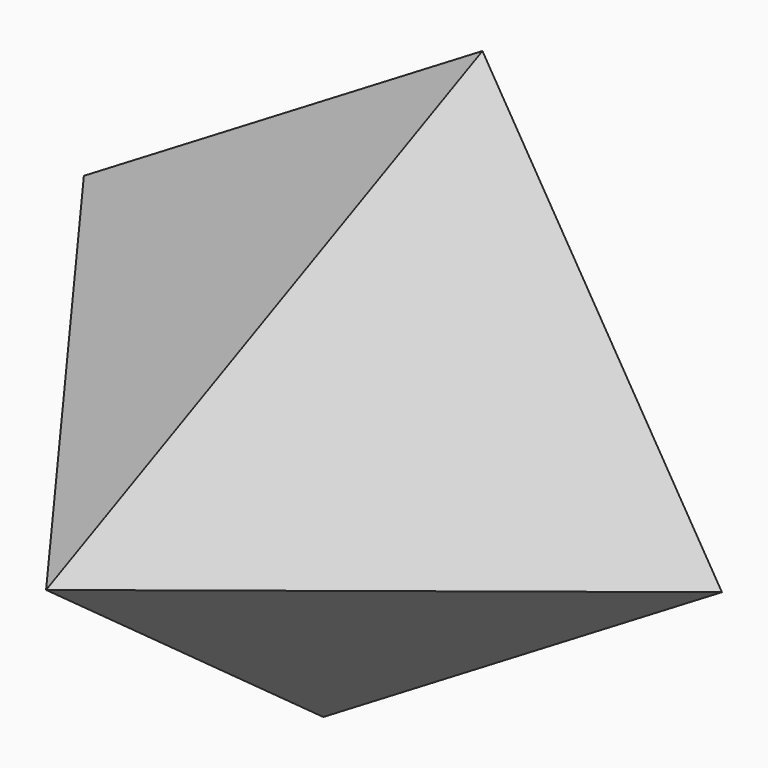
from build123d import *


with BuildPart() as f3:
    # F0 (on Front) → F3 section 0
    with BuildSketch(Plane.XZ, mode=Mode.PRIVATE) as f3_s0:
        Polygon((52.930329, -13.196721), (13.196721, 52.930329), (-52.930329, 13.196721), (-13.196721, -52.930329), align=None)
    loft([f3_s0.sketch, Vertex(0, -74, 0)])


solid = f3.part
